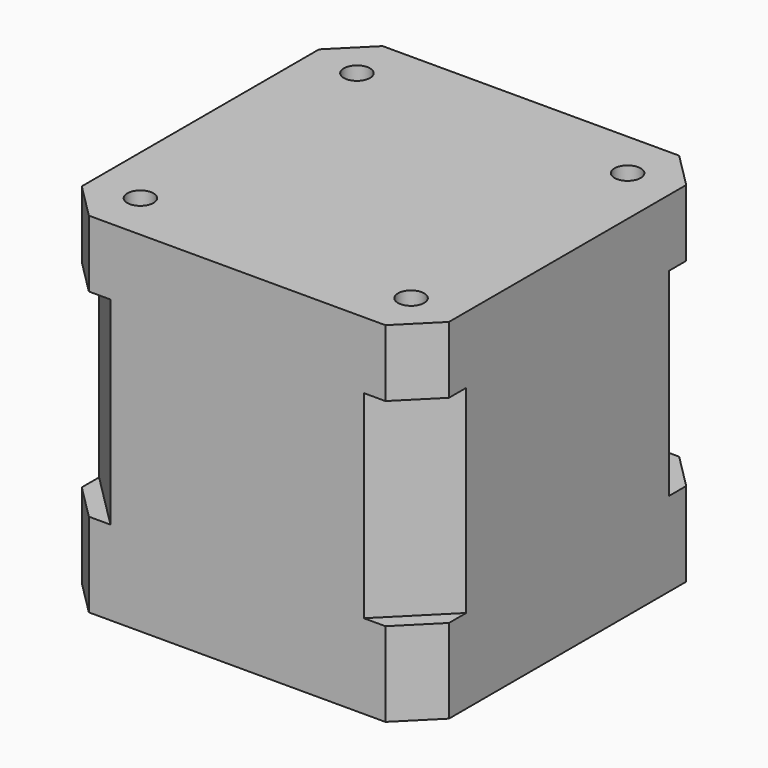
from build123d import *

# Parameters (mm, degrees)
F1_DEPTH = 40
F4_DEPTH = 22.7
F6_D     = 3
F6_DEPTH = 5
F6_TIP   = 0.9012909285


with BuildPart() as f1:
    # F0 (on Top) → F1 (new body)
    with BuildSketch(Plane.XY):
        Polygon((16.9819894888, 21.025), (-16.9819894888, 21.025), (-21.025, 16.9819894888), (-21.025, -16.9819894888), (-16.9819894888, -21.025), (16.9819894888, -21.025), (21.025, -16.9819894888), (21.025, 16.9819894888), align=None)
    extrude(amount=-F1_DEPTH)

    # F3 (on offset) + F1_face (on face) → F4 (cut)
    with BuildSketch(Plane.XY.offset(-7.65)):
        Polygon((-21.025, 16.9819894888), (-21.025, 14.5071157546), (-14.5071157546, 21.025), (-16.9819894888, 21.025), align=None)
        Polygon((16.9819894888, 21.025), (14.5071157546, 21.025), (21.025, 14.5071157546), (21.025, 16.9819894888), align=None)
        Polygon((21.025, -14.5071157546), (14.5071157546, -21.025), (16.9819894888, -21.025), (21.025, -16.9819894888), align=None)
        Polygon((-21.025, -16.9819894888), (-16.9819894888, -21.025), (-14.5071157546, -21.025), (-21.025, -14.5071157546), align=None)
    with BuildSketch(Plane(origin=(0, 0, -40), x_dir=(1, 0, 0), z_dir=(0, 0, -1))):
        Polygon((21.025, -16.9819894888), (21.025, 16.9819894888), (16.9819894888, 21.025), (-16.9819894888, 21.025), (-21.025, 16.9819894888), (-21.025, -16.9819894888), (-16.9819894888, -21.025), (16.9819894888, -21.025), align=None)
    extrude(amount=-F4_DEPTH, dir=(0, 0, 1), mode=Mode.SUBTRACT)

    # F6
    with Locations(Plane.XY):
        with Locations((-15.5, 15.5), (15.5, 15.5), (15.5, -15.5), (-15.5, -15.5)):
            Hole(F6_D / 2, depth=F6_DEPTH)
            with Locations((0, 0, -(F6_DEPTH + F6_TIP / 2))):  # 118° drill point
                Cone(0, F6_D / 2, F6_TIP, mode=Mode.SUBTRACT)


solid = f1.part
